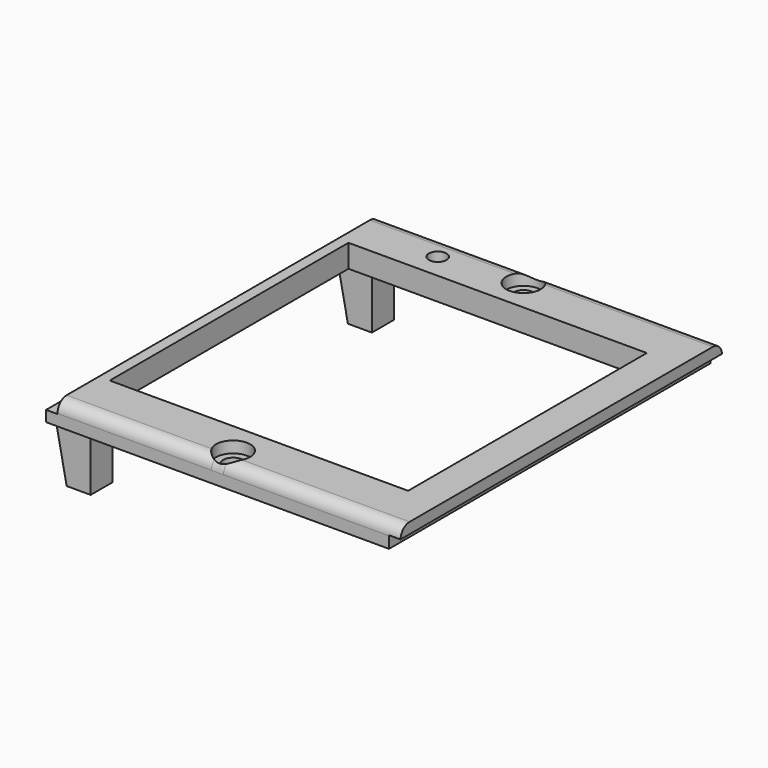
from build123d import *

# Parameters (mm, degrees)
SKETCH077_W          = 62
SKETCH077_H          = 70.3
SKETCH077_R          = 1.75
SKETCH077_R_2        = 1.55
SKETCH077_W_2        = 52.2
SKETCH077_H_2        = 52.2
PAD021_DEPTH         = 4
FILLET009_R          = 2
SKETCH078_W          = 2
SKETCH078_H          = 2.1
POCKET050_DEPTH      = 35.151
POCKET050_DEPTH_BACK = 35.151
SKETCH079_R          = 3
POCKET028_DEPTH      = 2.001
SKETCH081_W          = 4.202
SKETCH081_H          = 4.8
PAD023_DEPTH         = 10
CHAMFER003_SIZE2     = 9.99
CHAMFER003_SIZE      = 1.99


with BuildPart() as part:
    # Sketch077 → Pad021 (new body)
    with BuildSketch(Plane.XY):
        with Locations((1, 0)):
            Rectangle(SKETCH077_W, SKETCH077_H)
        with Locations((0, 31.75)):
            Circle(SKETCH077_R, mode=Mode.SUBTRACT)
        with Locations((0, -31.75)):
            Circle(SKETCH077_R, mode=Mode.SUBTRACT)
        with Locations((-14, 30.5)):
            Circle(SKETCH077_R_2, mode=Mode.SUBTRACT)
        Rectangle(SKETCH077_W_2, SKETCH077_H_2, mode=Mode.SUBTRACT)
    extrude(amount=PAD021_DEPTH)

    # Fillet009
    fillet009_edges = [part.edges().sort_by_distance(p)[0] for p in [
        (1, 35.15, 4),
        (1, -35.15, 4),
    ]]
    fillet(fillet009_edges, radius=FILLET009_R)

    # Sketch078 → Pocket050 (cut, two sides)
    with BuildSketch(Plane.XZ) as pocket050_sk:
        with Locations((-29, 2.95)):
            Rectangle(SKETCH078_W, SKETCH078_H)
        with Locations((31, 1.05)):
            Rectangle(SKETCH078_W, SKETCH078_H)
    extrude(amount=-POCKET050_DEPTH, mode=Mode.SUBTRACT)
    extrude(pocket050_sk.sketch, amount=POCKET050_DEPTH_BACK, mode=Mode.SUBTRACT)

    # Sketch079 → Pocket028 (cut, through all)
    with BuildSketch(Plane.XY.offset(2)):
        with Locations((0, -31.75)):
            Circle(SKETCH079_R)
        with Locations((0, 31.75)):
            Circle(SKETCH079_R)
    extrude(amount=POCKET028_DEPTH, mode=Mode.SUBTRACT)

    # Sketch081 → Pad023 (join)
    with BuildSketch(Plane.XY):
        with Locations((-25.899, 30.75)):
            Rectangle(SKETCH081_W, SKETCH081_H)
        with Locations((-25.899, -30.75)):
            Rectangle(SKETCH081_W, SKETCH081_H)
    extrude(amount=-PAD023_DEPTH)

    # Chamfer003
    chamfer003_edges = [part.edges().sort_by_distance(p)[0] for p in [
        (-28, 30.75, 0),
        (-28, -30.75, 0),
    ]]
    chamfer003_side = part.faces().sort_by_distance((-29.075766, 0, 0))[0]
    chamfer(chamfer003_edges, length=CHAMFER003_SIZE, length2=CHAMFER003_SIZE2, reference=chamfer003_side)


with BuildPart() as part_1:
    # Body049 placement: moved
    add(part.part.moved(Location((0, 0, 46))))


solid = part_1.part
